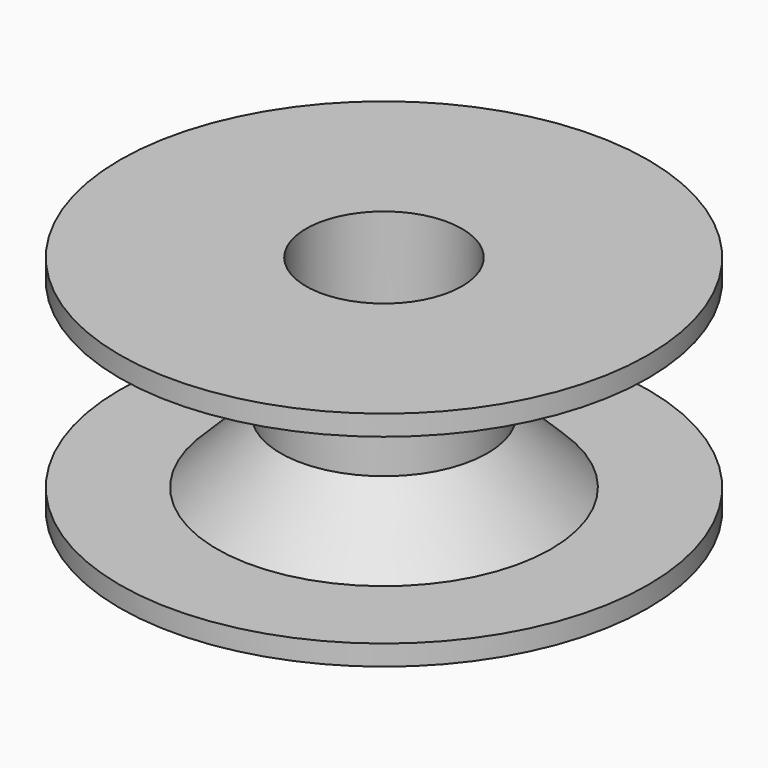
from build123d import *

# Parameters (mm, degrees)
F0_R     = 10.541
F1_DEPTH = 0.8128
F2_R     = 4.1275
F3_DEPTH = 8.89
F5_R     = 10.541
F6_DEPTH = 0.8128
F7_R     = 3.1115
F8_DEPTH = 8.89
F9_SIZE  = 2.54


with BuildPart() as f1:
    # F0 (on Top) → F1 (new body)
    with BuildSketch(Plane.XY):
        Circle(F0_R)
    extrude(amount=F1_DEPTH)

    # F2 (on Top) → F3 (join)
    with BuildSketch(Plane.XY):
        Circle(F2_R)
    extrude(amount=F3_DEPTH)

    # F5 (on offset) → F6 (join)
    with BuildSketch(Plane.XY.offset(8.89)):
        Circle(F5_R)
    extrude(amount=-F6_DEPTH)

    # F7 (on Top) → F8 (cut)
    with BuildSketch(Plane.XY):
        Circle(F7_R)
    extrude(amount=F8_DEPTH, mode=Mode.SUBTRACT)

    # F9
    f9_edges = [f1.edges().sort_by_distance(p)[0] for p in [
        (-4.1275, 0, 8.0772),
        (-4.1275, 0, 0.8128),
    ]]
    chamfer(f9_edges, length=F9_SIZE)


solid = f1.part
